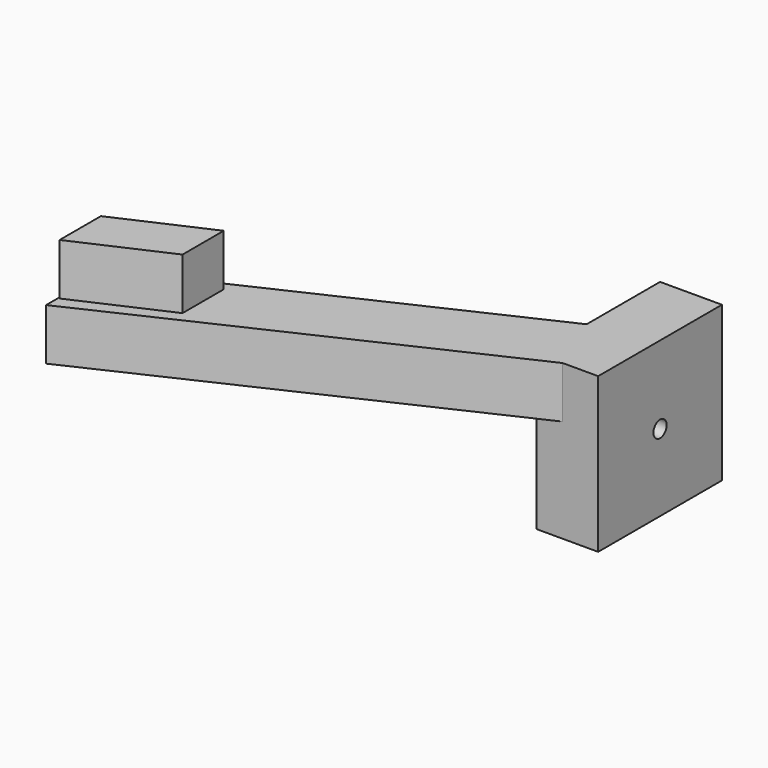
from build123d import *

# Parameters (mm, degrees)
SKETCH_W        = 12
SKETCH_H        = 30
PAD_DEPTH       = 30
PAD001_DEPTH    = 10
SKETCH004_R     = 3
POCKET001_DEPTH = 3
SKETCH005_R     = 1.6
POCKET_DEPTH    = 9.001
PAD002_DEPTH    = 10


with BuildPart() as part:
    # Sketch → Pad (new body)
    with BuildSketch(Plane.XY):
        Rectangle(SKETCH_W, SKETCH_H)
    extrude(amount=PAD_DEPTH)

    # Sketch001 → Pad001 (join)
    with BuildSketch(Plane.XY.offset(30)):
        Polygon((0, 0), (-73.854295, -34.438823), (-73.854295, -49.021726), (0, -14.582903), align=None)
    extrude(amount=-PAD001_DEPTH)

    # Sketch004 → Pocket001 (cut)
    with BuildSketch(Plane.YZ.offset(-6)):
        with Locations((0, 14.871989)):
            Circle(SKETCH004_R)
    extrude(amount=POCKET001_DEPTH, mode=Mode.SUBTRACT)

    # Sketch005 → Pocket (cut, through all)
    with BuildSketch(Plane.YZ.offset(-3)):
        with Locations((0, 14.898449)):
            Circle(SKETCH005_R)
    extrude(amount=POCKET_DEPTH, mode=Mode.SUBTRACT)

    # Sketch006 → Pad002 (join)
    with BuildSketch(Plane.XY.offset(30)):
        Polygon((-73.59462, -36.062692), (-56.065701, -28.186142), (-56.065701, -38.186142), (-73.59462, -46.062692), align=None)
    extrude(amount=PAD002_DEPTH)


solid = part.part
